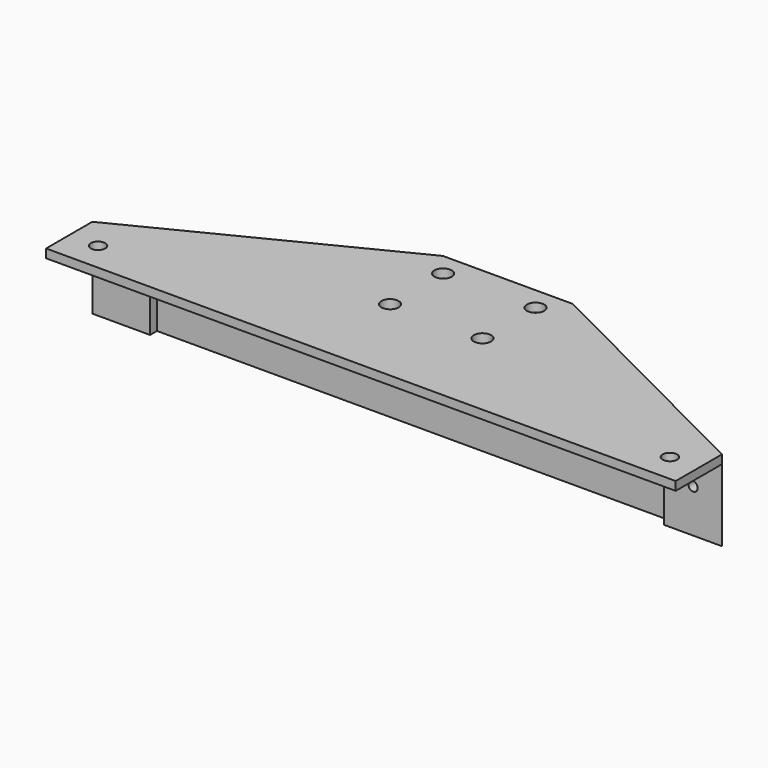
from build123d import *

# Parameters (mm, degrees)
F0_R      = 2.5
F1_DEPTH  = 3
F2_W      = 45
F2_H      = 3
F3_DEPTH  = 22
F5_DEPTH  = 3
F7_DEPTH  = 22
F8_R      = 1.6
F9_DEPTH  = 6
F10_R     = 3
F11_DEPTH = 25
F12_DEPTH = 30


with BuildPart() as f1:
    # F0 (on Top) → F1 (new body)
    with BuildSketch(Plane.XY):
        Polygon((18, -10), (109, -10), (109, 10), (22.5, 53.6), (-22.5, 53.6), (-109, 10), (-109, -10), (3, -10), align=None)
        with Locations((-99, 0)):
            Circle(F0_R, mode=Mode.SUBTRACT)
        with Locations((99, 0)):
            Circle(F0_R, mode=Mode.SUBTRACT)
    extrude(amount=F1_DEPTH)

    # F2 (on face) → F3 (join)
    with BuildSketch(Plane(origin=(0, 0, 0), x_dir=(1, 0, 0), z_dir=(0, 0, -1))):
        with Locations((0, -52.1)):
            Rectangle(F2_W, F2_H)
    extrude(amount=F3_DEPTH)

    # F4 (on face) → F5 (join)
    with BuildSketch(Plane(origin=(0, 0, 0), x_dir=(1, 0, 0), z_dir=(0, 0, -1))):
        Polygon((89, -13), (-89, -13), (-89, -10), (-109, -10), (-103.048165, -13), (-53.449541, -38), (53.449541, -38), (103.048165, -13), (109, -10), (89, -10), align=None)
    extrude(amount=F5_DEPTH)

    # F6 (on face) → F7 (join)
    with BuildSketch(Plane(origin=(0, 0, -3), x_dir=(1, 0, 0), z_dir=(0, 0, -1))):
        Polygon((89, -13), (-89, -13), (-89, -10), (-109, -10), (-97.09633, -16), (97.09633, -16), (109, -10), (89, -10), align=None)
    extrude(amount=F7_DEPTH)

    # F8 (on face) → F9 (cut)
    with BuildSketch(Plane.XZ.offset(-10)):
        with Locations((-99, -10)):
            Circle(F8_R)
        with Locations((99, -10)):
            Circle(F8_R)
    extrude(amount=-F9_DEPTH, mode=Mode.SUBTRACT)

    # F10 (on face) → F11 (cut)
    with BuildSketch(Plane.XY.offset(3)):
        with Locations((-16, 45.6)):
            Circle(F10_R)
        with Locations((-16, 22.6)):
            Circle(F10_R)
        with Locations((16, 22.6)):
            Circle(F10_R)
        with Locations((16, 45.6)):
            Circle(F10_R)
    extrude(amount=-F11_DEPTH, mode=Mode.SUBTRACT)

    # F10 (on face) → F12 (cut)
    with BuildSketch(Plane.XY.offset(3)):
        with Locations((-16, 45.6)):
            Circle(F10_R)
        with Locations((-16, 22.6)):
            Circle(F10_R)
        with Locations((16, 22.6)):
            Circle(F10_R)
        with Locations((16, 45.6)):
            Circle(F10_R)
    extrude(amount=-F12_DEPTH, mode=Mode.SUBTRACT)


solid = f1.part
